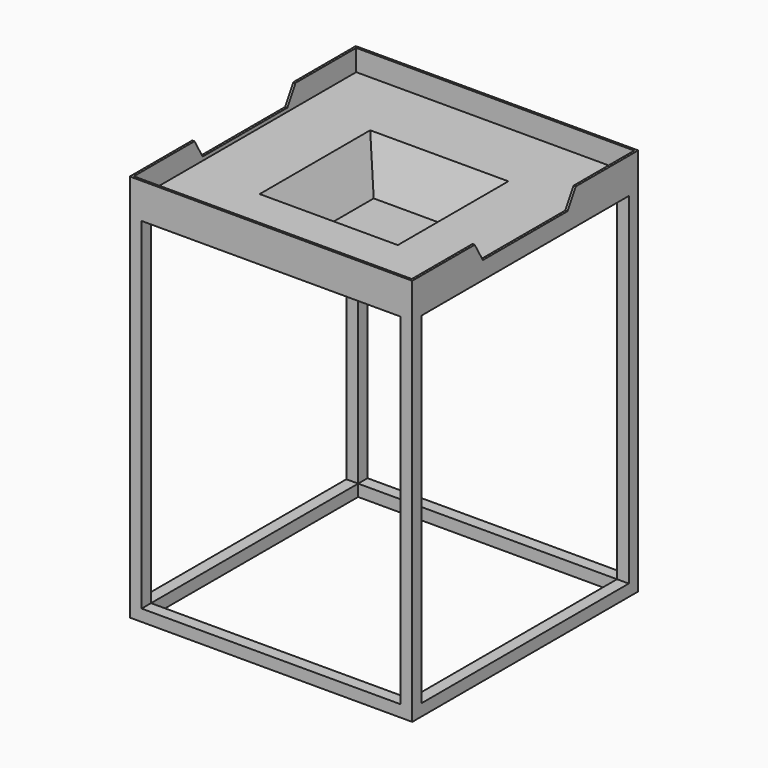
from build123d import *

# Parameters (mm, degrees)
F0_W      = 609.6
F0_H      = 609.6
F1_DEPTH  = 50.8
F2_W      = 304.8
F2_H      = 304.8
F4_W      = 228.6
F4_H      = 228.6
F6_T      = -4.7625
F7_W      = 609.6
F7_H      = 609.6
F7_W_2    = 558.8
F7_H_2    = 558.8
F8_DEPTH  = 25.4
F10_DEPTH = 609.601
F11_W     = 25.4
F11_H     = 25.4
F12_DEPTH = 762
F13_W     = 609.6
F13_H     = 609.6
F13_W_2   = 558.8
F13_H_2   = 558.8
F14_DEPTH = 25.4


with BuildPart() as f1:
    # F0 (on Top) → F1 (new body)
    with BuildSketch(Plane.XY):
        with Locations((304.8, 304.8)):
            Rectangle(F0_W, F0_H)
    extrude(amount=F1_DEPTH)

    # F2 (on face) → F5 section 0
    with BuildSketch(Plane(origin=(0, 0, 0), x_dir=(1, 0, 0), z_dir=(0, 0, -1))):
        with Locations((304.8, -304.8)):
            Rectangle(F2_W, F2_H)
    # F4 (on offset) → F5 section 1
    with BuildSketch(Plane(origin=(0, 0, -101.6), x_dir=(1, 0, 0), z_dir=(0, 0, -1))):
        with Locations((304.8, -304.8)):
            Rectangle(F4_W, F4_H)
    loft()

    # F6
    f6_openings = [f1.faces().sort_by_distance(p)[0] for p in [
        (304.8, 304.8, 50.8),
    ]]
    offset(amount=F6_T, openings=f6_openings, kind=Kind.INTERSECTION)

    # F7 (on face) → F8 (join)
    with BuildSketch(Plane(origin=(0, 0, 0), x_dir=(1, 0, 0), z_dir=(0, 0, -1))):
        with Locations((304.8, -304.8)):
            Rectangle(F7_W, F7_H)
        with Locations((304.8, -304.8)):
            Rectangle(F7_W_2, F7_H_2, mode=Mode.SUBTRACT)
    extrude(amount=F8_DEPTH)

    # F9 (on face) → F10 (cut, through all)
    with BuildSketch(Plane(origin=(0, 0, 0), x_dir=(0, -1, 0), z_dir=(-1, 0, 0))):
        Polygon((-441.0970452561, 50.8), (-419.1, 12.7), (-190.5, 12.7), (-168.5029547439, 50.8), align=None)
    extrude(amount=-F10_DEPTH, mode=Mode.SUBTRACT)

    # F11 (on face) → F12 (join)
    with BuildSketch(Plane(origin=(0, 0, -25.4), x_dir=(1, 0, 0), z_dir=(0, 0, -1))):
        with Locations((12.7, -12.7)):
            Rectangle(F11_W, F11_H)
        with Locations((596.9, -12.7)):
            Rectangle(F11_W, F11_H)
        with Locations((596.9, -596.9)):
            Rectangle(F11_W, F11_H)
        with Locations((12.7, -596.9)):
            Rectangle(F11_W, F11_H)
    extrude(amount=F12_DEPTH)

    # F13 (on face) → F14 (join)
    with BuildSketch(Plane(origin=(0, 0, -787.4), x_dir=(1, 0, 0), z_dir=(0, 0, -1))):
        with Locations((304.8, -304.8)):
            Rectangle(F13_W, F13_H)
        with Locations((304.8, -304.8)):
            Rectangle(F13_W_2, F13_H_2, mode=Mode.SUBTRACT)
    extrude(amount=-F14_DEPTH)


solid = f1.part
